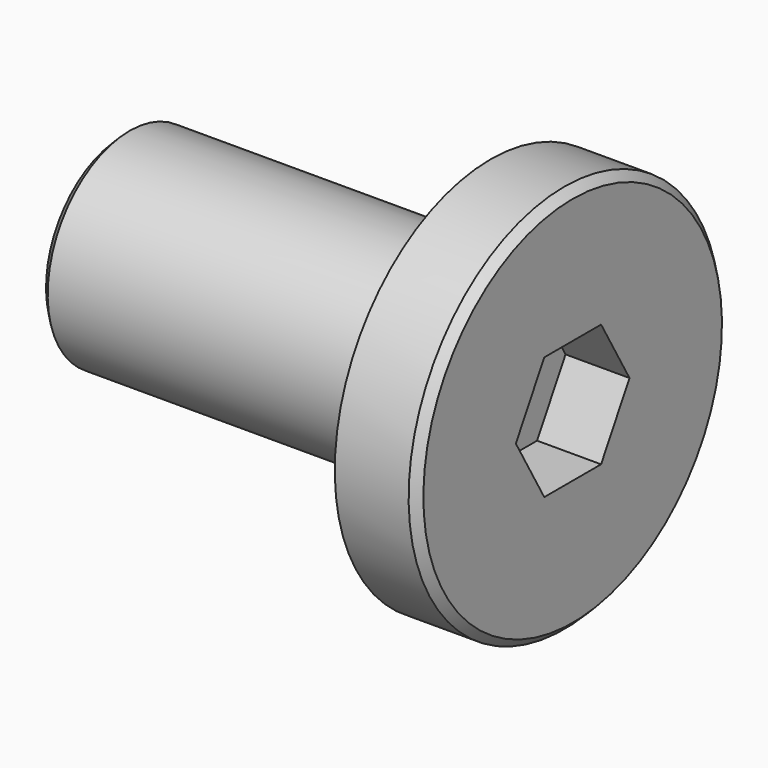
from build123d import *

# Parameters (mm, degrees)
F0_W     = 9
F0_H     = 2.5
F2_SIZE  = 0.2
F4_DEPTH = 1.56


with BuildPart() as f1:
    # F0 (on Front) → F1 (revolve)
    with BuildSketch(Plane.XZ):
        with Locations((-0.4593508661, 34.7560998052)):
            Rectangle(F0_W, F0_H)
        Polygon((4.0406491339, 38.2560998052), (4.0406491339, 36.0060998052), (4.0406491339, 33.5060998052), (6.0406491339, 33.5060998052), (6.0406491339, 38.2560998052), align=None)
    revolve(axis=Axis((-0.4593508661, 0, 33.5060998052), (-1, 0, 0)))

    # F2
    f2_edges = [f1.edges().sort_by_distance(p)[0] for p in [
        (-4.959351, 0, 31.0061),
        (6.040649, 0, 28.7561),
    ]]
    chamfer(f2_edges, length=F2_SIZE)

    # F3 (on face) → F4 (cut)
    with BuildSketch(Plane.YZ.offset(6.0406491339)):
        Polygon((0.8660254038, 35.0060998052), (-0.8660254038, 35.0060998052), (-1.7320508076, 33.5060998052), (-0.8660254038, 32.0060998052), (0.8660254038, 32.0060998052), (1.7320508076, 33.5060998052), align=None)
    extrude(amount=-F4_DEPTH, mode=Mode.SUBTRACT)


solid = f1.part
